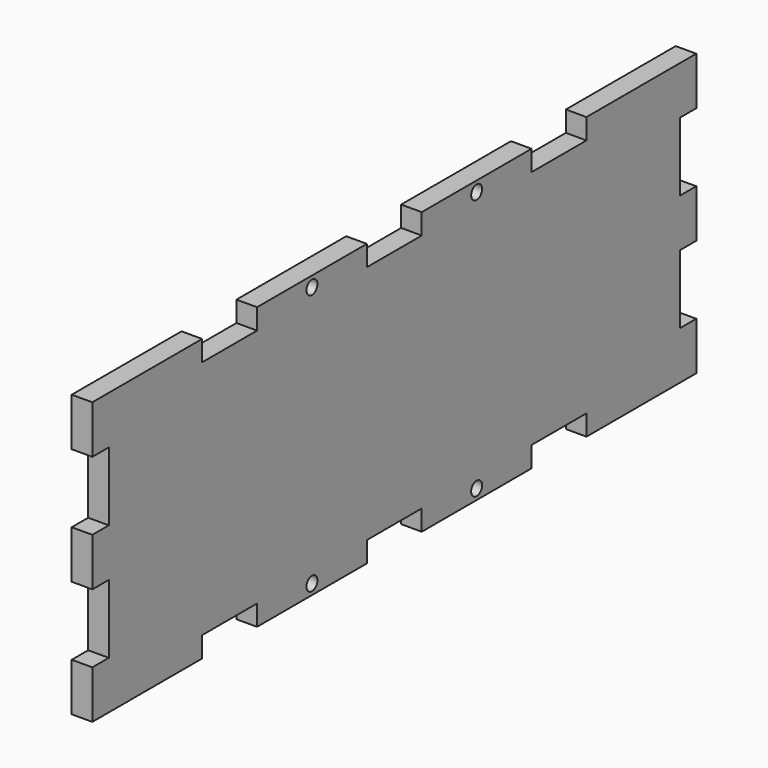
from build123d import *

# Parameters (mm, degrees)
F0_R     = 1
F1_DEPTH = 3


with BuildPart() as f1:
    # F0 (on Right) → F1 (new body)
    with BuildSketch(Plane.YZ):
        Polygon((-20, 0), (0, 0), (0, 7), (-3, 7), (-3, 17), (0, 17), (0, 24), (-3, 24), (-3, 34), (0, 34), (0, 41), (-20, 41), (-20, 38), (-30, 38), (-30, 41), (-50, 41), (-50, 38), (-55, 38), (-60, 38), (-60, 41), (-80, 41), (-80, 38), (-90, 38), (-90, 41), (-110, 41), (-110, 34), (-107, 34), (-107, 24), (-110, 24), (-110, 17), (-107, 17), (-107, 7), (-110, 7), (-110, 0), (-90, 0), (-90, 3), (-80, 3), (-80, 0), (-60, 0), (-60, 3), (-55, 3), (-50, 3), (-50, 0), (-30, 0), (-30, 3), (-20, 3), align=None)
        with Locations((-70, 1.5)):
            Circle(F0_R, mode=Mode.SUBTRACT)
        with Locations((-40, 1.5)):
            Circle(F0_R, mode=Mode.SUBTRACT)
        with Locations((-70, 39.5)):
            Circle(F0_R, mode=Mode.SUBTRACT)
        with Locations((-40, 39.5)):
            Circle(F0_R, mode=Mode.SUBTRACT)
    extrude(amount=F1_DEPTH)


solid = f1.part
